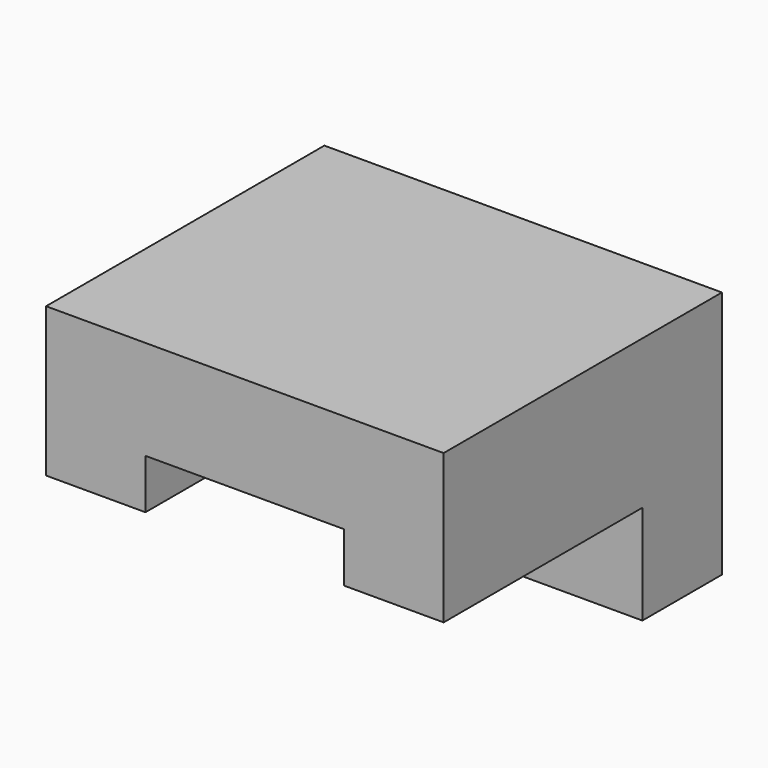
from build123d import *

# Parameters (mm, degrees)
F0_W     = 203.2
F0_H     = 127
F1_DEPTH = 50.8
F2_W     = 203.2
F2_H     = 76.2
F3_DEPTH = 25.4
F5_DEPTH = 101.6


with BuildPart() as f1:
    # F0 (on Front) → F1 (new body)
    with BuildSketch(Plane.XZ):
        with Locations((-26.285635, 11.66383)):
            Rectangle(F0_W, F0_H)
    extrude(amount=F1_DEPTH)

    # F2 (on face) → F3 (join)
    with BuildSketch(Plane.XZ.offset(50.8)):
        with Locations((-26.285635, 37.06383)):
            Rectangle(F2_W, F2_H)
    extrude(amount=F3_DEPTH)

    # F4 (on face) → F5 (join)
    with BuildSketch(Plane.XZ.offset(76.2)):
        Polygon((-77.085635, 24.36383), (24.514365, 24.36383), (24.514365, -1.03617), (75.314365, -1.03617), (75.314365, 75.16383), (-127.885635, 75.16383), (-127.885635, -1.03617), (-77.085635, -1.03617), align=None)
    extrude(amount=F5_DEPTH)


solid = f1.part
